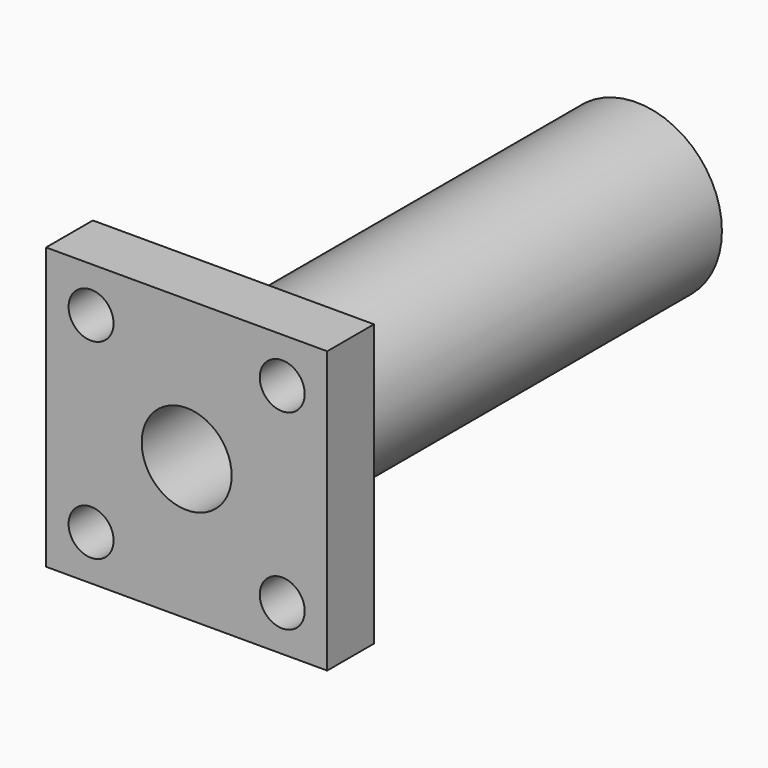
from build123d import *

# Parameters (mm, degrees)
CYLINDER006_R          = 2
CYLINDER006_DEPTH      = 10
CYLINDER007_R          = 2
CYLINDER007_DEPTH      = 10
CYLINDER005_R          = 2
CYLINDER005_DEPTH      = 10
CYLINDER004_R          = 2
CYLINDER004_DEPTH      = 10
CYLINDER003_R          = 4
CYLINDER003_DEPTH      = 60
CYLINDER002_R          = 7.6
CYLINDER002_DEPTH      = 45
BOX_W                  = 25
BOX_H                  = 25
BOX_DEPTH              = 5.2
CUT004_PLACEMENT_ANGLE = 90


with BuildPart() as cylinder006:
    # Cylinder006 → Cylinder006 (new body)
    with BuildSketch(Plane(origin=(21, 21, -2), x_dir=(1, 0, 0), z_dir=(0, 0, 1))):
        Circle(CYLINDER006_R)
    extrude(amount=CYLINDER006_DEPTH)


with BuildPart() as cylinder007:
    # Cylinder007 → Cylinder007 (new body)
    with BuildSketch(Plane(origin=(21, 4, -2), x_dir=(1, 0, 0), z_dir=(0, 0, 1))):
        Circle(CYLINDER007_R)
    extrude(amount=CYLINDER007_DEPTH)


with BuildPart() as cylinder005:
    # Cylinder005 → Cylinder005 (new body)
    with BuildSketch(Plane(origin=(4, 21, -2), x_dir=(1, 0, 0), z_dir=(0, 0, 1))):
        Circle(CYLINDER005_R)
    extrude(amount=CYLINDER005_DEPTH)


with BuildPart() as cylinder004:
    # Cylinder004 → Cylinder004 (new body)
    with BuildSketch(Plane(origin=(4, 4, -2), x_dir=(1, 0, 0), z_dir=(0, 0, 1))):
        Circle(CYLINDER004_R)
    extrude(amount=CYLINDER004_DEPTH)


with BuildPart() as cylinder003:
    # Cylinder003 → Cylinder003 (new body)
    with BuildSketch(Plane(origin=(12.5, 12.5, -7), x_dir=(1, 0, 0), z_dir=(0, 0, 1))):
        Circle(CYLINDER003_R)
    extrude(amount=CYLINDER003_DEPTH)


with BuildPart() as cylinder002:
    # Cylinder002 → Cylinder002 (new body)
    with BuildSketch(Plane(origin=(12.5, 12.5, 5), x_dir=(1, 0, 0), z_dir=(0, 0, 1))):
        Circle(CYLINDER002_R)
    extrude(amount=CYLINDER002_DEPTH)


with BuildPart() as cut004:
    # Box → Box (new body)
    with BuildSketch(Plane.XY):
        with Locations((12.5, 12.5)):
            Rectangle(BOX_W, BOX_H)
    extrude(amount=BOX_DEPTH)

    # Fusion: union Cylinder002
    add(cylinder002.part)

    # Cut: cut Cylinder003
    add(cylinder003.part, mode=Mode.SUBTRACT)

    # Cut001: cut Cylinder004
    add(cylinder004.part, mode=Mode.SUBTRACT)

    # Cut002: cut Cylinder005
    add(cylinder005.part, mode=Mode.SUBTRACT)

    # Cut003: cut Cylinder007
    add(cylinder007.part, mode=Mode.SUBTRACT)

    # Cut004: cut Cylinder006
    add(cylinder006.part, mode=Mode.SUBTRACT)


with BuildPart() as cut004_1:
    # Cut004 placement: moved
    add(cut004.part.moved(Location((-12.5, -0.2, 12.5))).rotate(Axis((-12.5, -0.2, 12.5), (-1, 0, 0)), CUT004_PLACEMENT_ANGLE))


solid = cut004_1.part
